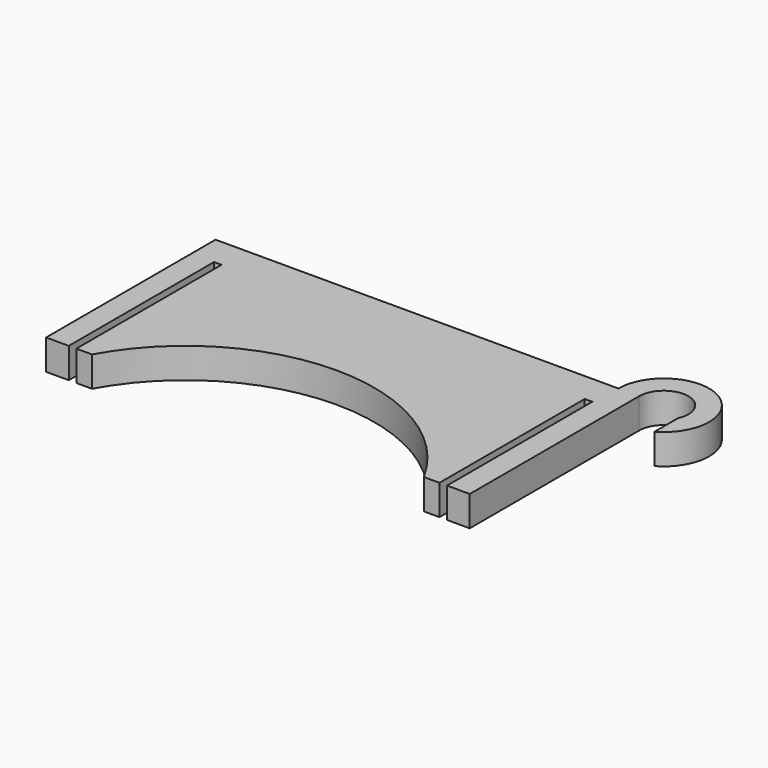
from build123d import *

# Parameters (mm, degrees)
F1_DEPTH = 2


with BuildPart() as f1:
    # F0 (on Top) → F1 (new body, symmetric)
    with BuildSketch(Plane.XY):
        with BuildLine():
            Line((-28, 0), (-28, -28))
            Line((-28, -28), (-25, -28))
            Line((-25, -28), (-25, -4))
            Line((-25, -4), (-24, -4))
            Line((-24, -4), (-24, -28))
            Line((-24, -28), (-21.931712, -28))
            ThreePointArc((-21.931712, -28), (0, -15), (21.931712, -28))
            Line((21.931712, -28), (24, -28))
            Line((24, -28), (24, -4))
            Line((24, -4), (25, -4))
            Line((25, -4), (25, -28))
            Line((25, -28), (28, -28))
            Line((28, -28), (28, 0))
            Line((28, 0), (25.25, 0))
            Line((25.25, 0), (0, 0))
            Line((0, 0), (-28, 0))
        make_face()
        with BuildLine():
            ThreePointArc((34.2, -5.224701), (34.274897, 5.181699), (25.25, 0))
            Line((25.25, 0), (28, 0))
            ThreePointArc((28, 0), (31.948212, 3.174114), (34.2, -1.363818))
            Line((34.2, -1.363818), (34.2, -5.224701))
        make_face()
    extrude(amount=F1_DEPTH, both=True)


solid = f1.part
